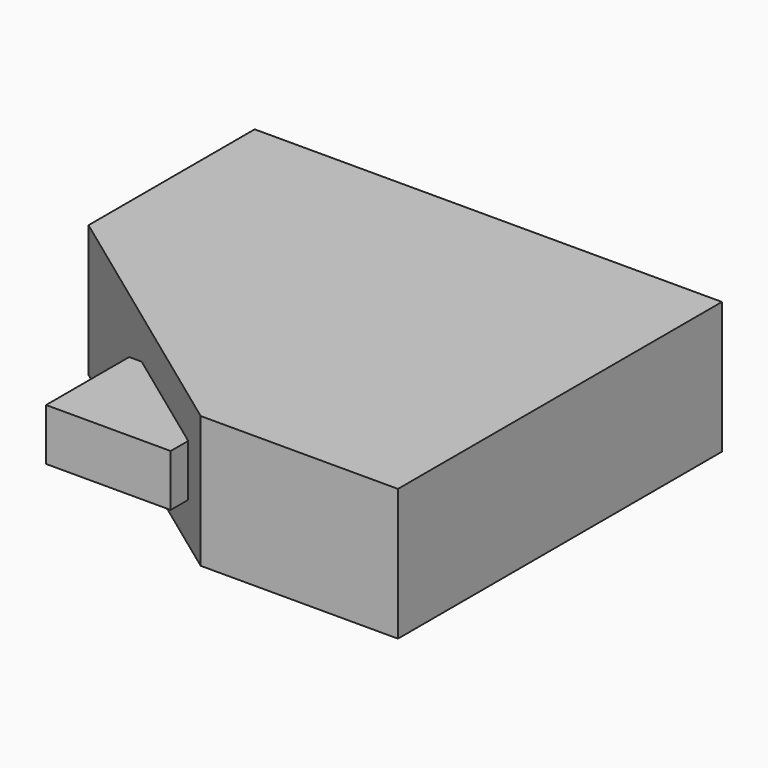
from build123d import *

# Parameters (mm, degrees)
F1_DEPTH = 25.4
F2_W     = 24
F2_H     = 10
F3_DEPTH = 20


with BuildPart() as f1:
    # F0 (on Top) → F1 (new body)
    with BuildSketch(Plane.XY):
        Polygon((90, 0), (0, 0), (0, -40), (52, -78), (90, -78), align=None)
    extrude(amount=F1_DEPTH)

    # F2 (on face) → F3 (join)
    with BuildSketch(Plane.XZ.offset(78)):
        with Locations((34.221601, 12.58618)):
            Rectangle(F2_W, F2_H)
    extrude(amount=-F3_DEPTH)


solid = f1.part
